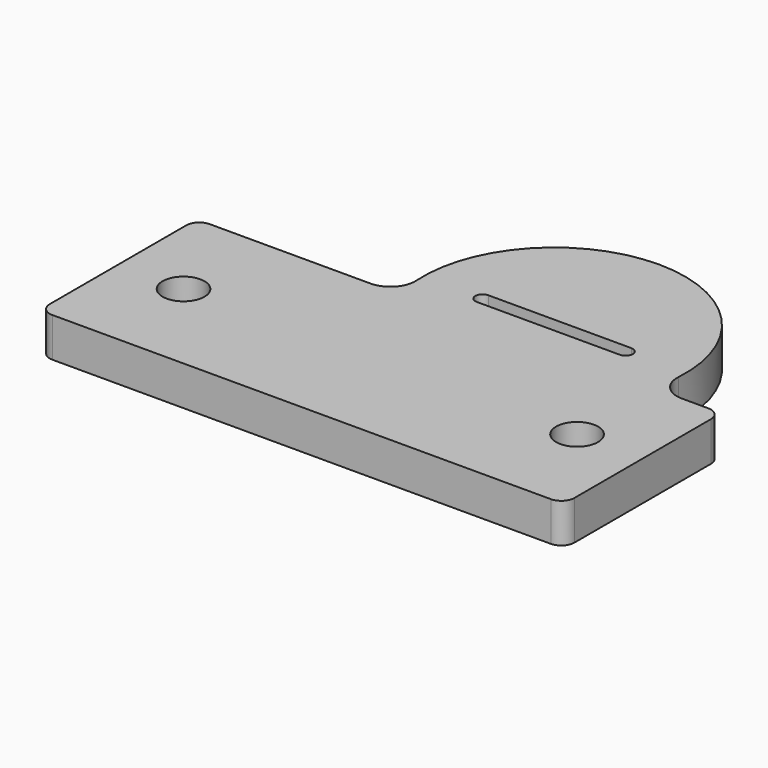
from build123d import *

# Parameters (mm, degrees)
F0_R     = 1.6
F1_DEPTH = 3
F2_R     = 1


with BuildPart() as f1:
    # F0 (on Top) → F1 (new body)
    with BuildSketch(Plane.XY):
        with BuildLine():
            Line((20, 0), (20, 7.5))
            Line((20, 7.5), (17, 7.5))
            ThreePointArc((17, 7.5), (15.615652, 8.099204), (15.105048, 9.518622))
            ThreePointArc((15.105048, 9.518622), (5.125, 20.15), (-4.855048, 9.518622))
            ThreePointArc((-4.855048, 9.518622), (-5.365652, 8.099204), (-6.75, 7.5))
            Line((-6.75, 7.5), (-20, 7.5))
            Line((-20, 7.5), (-20, 0))
            Line((-20, 0), (-20, -7.5))
            Line((-20, -7.5), (20, -7.5))
            Line((20, -7.5), (20, 0))
        make_face()
        with Locations((-15, 0)):
            Circle(F0_R, mode=Mode.SUBTRACT)
        with Locations((15, 0)):
            Circle(F0_R, mode=Mode.SUBTRACT)
        with BuildLine():
            ThreePointArc((-0.325, 9.6), (-0.875, 10.15), (-0.325, 10.7))
            Line((-0.325, 10.7), (10.575, 10.7))
            ThreePointArc((10.575, 10.7), (10.963909, 10.538909), (11.125, 10.15))
            ThreePointArc((11.125, 10.15), (10.963909, 9.761091), (10.575, 9.6))
            Line((10.575, 9.6), (-0.325, 9.6))
        make_face(mode=Mode.SUBTRACT)
    extrude(amount=F1_DEPTH)

    # F2
    f2_edges = [f1.edges().sort_by_distance(p)[0] for p in [
        (-20, -7.5, 1.5),
        (20, -7.5, 1.5),
        (20, 7.5, 1.5),
        (-20, 7.5, 1.5),
    ]]
    fillet(f2_edges, radius=F2_R)


solid = f1.part
